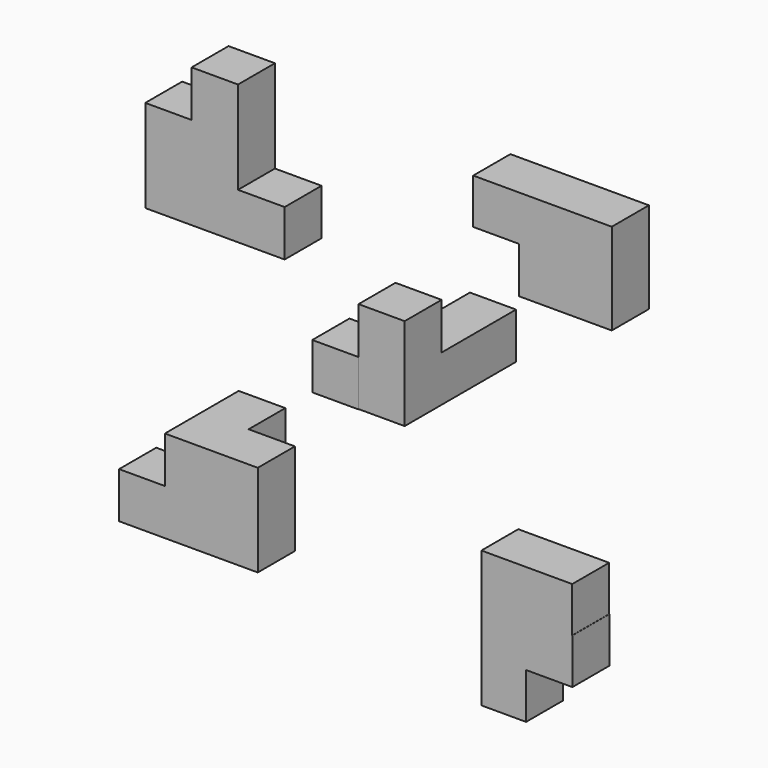
from build123d import *

# Parameters (mm, degrees)
F0_W      = 36.8707999587
F0_H      = 37.0462089777
F0_H_2    = 36.7453359067
F0_W_2    = 37.4526120722
F0_W_3    = 36.8483401835
F1_DEPTH  = 36.83
F2_W      = 36.7274060845
F2_H      = 37.1338948607
F3_DEPTH  = 36.83
F4_W      = 36.3674685359
F4_H      = 36.1300632358
F4_W_2    = 37.3409986496
F4_W_3    = 36.9172394276
F4_H_2    = 0.1472309232
F4_H_3    = 36.6679653525
F5_DEPTH  = 37.084
F6_W      = 36.8429273367
F6_H      = 36.0713973641
F6_W_2    = 35.6973931193
F6_H_2    = 36.3366901875
F6_H_3    = 36.4796817303
F7_DEPTH  = 36.83
F8_W      = 37.0499566197
F8_H      = 36.895506084
F8_W_2    = 37.0007306337
F8_W_3    = 37.2293926775
F8_H_2    = 37.0487198234
F8_H_3    = 36.979354918
F9_DEPTH  = 36.83
F10_W     = 37.2024774551
F10_H     = 36.6578996181
F10_W_2   = 36.5787893534
F10_W_3   = 36.9535088539
F10_H_2   = 36.9332283735
F11_DEPTH = 37.084
F12_DEPTH = 36.576


with BuildPart() as f1:
    # F0 (on Right) → F1 (new body)
    with BuildSketch(Plane.YZ):
        with Locations((-18.4353999794, 18.5231044888)):
            Rectangle(F0_W, F0_H)
        with Locations((-18.4353999794, -18.3726679534)):
            Rectangle(F0_W, F0_H_2)
        with Locations((18.7263060361, -18.3726679534)):
            Rectangle(F0_W_2, F0_H_2)
        with Locations((55.876782164, -18.3726679534)):
            Rectangle(F0_W_3, F0_H_2)
    extrude(amount=F1_DEPTH)

    # F2 (on Top) → F3 (join)
    with BuildSketch(Plane.XY):
        with Locations((-18.3637030423, -18.5669474304)):
            Rectangle(F2_W, F2_H)
    extrude(amount=-F3_DEPTH)


with BuildPart() as f5:
    # F4 (on Front) → F5 (new body)
    with BuildSketch(Plane.XZ):
        with Locations((109.935361892, 139.2699815333)):
            Rectangle(F4_W, F4_H)
        with Locations((146.7895954847, 139.2699815333)):
            Rectangle(F4_W_2, F4_H)
        Polygon((165.4600948095, 121.2049499154), (128.1190961599, 121.2049499154), (128.1190961599, 84.3831375241), (165.4600948095, 84.3831375241), (165.4600948095, 84.3897536397), (165.4600948095, 121.0577189922), align=None)
        with Locations((183.9187145233, 139.2699815333)):
            Rectangle(F4_W_3, F4_H)
        with Locations((183.9187145233, 121.1313344538)):
            Rectangle(F4_W_3, F4_H_2)
        with Locations((183.9187145233, 102.723736316)):
            Rectangle(F4_W_3, F4_H_3)
    extrude(amount=F5_DEPTH)


with BuildPart() as f7:
    # F6 (on Front) → F7 (new body)
    with BuildSketch(Plane.XZ):
        with Locations((152.1887555718, -122.3171167076)):
            Rectangle(F6_W, F6_H)
        Polygon((133.7672919035, -140.3528153896), (133.7672919035, -104.2814180255), (98.0698987842, -104.2814180255), (98.0698987842, -140.3603851795), (133.7672919035, -140.3603851795), align=None)
        Polygon((170.7268208265, -140.3528153896), (170.6102192402, -140.3528153896), (133.7672919035, -140.3528153896), (133.7672919035, -140.3603851795), (133.7672919035, -176.697075367), (170.7268208265, -176.697075367), align=None)
        with Locations((115.9185953438, -158.5287302732)):
            Rectangle(F6_W_2, F6_H_2)
        with Locations((115.9185953438, -194.9369162321)):
            Rectangle(F6_W_2, F6_H_3)
    extrude(amount=F7_DEPTH)


with BuildPart() as f9:
    # F8 (on Front) → F9 (new body)
    with BuildSketch(Plane.XZ):
        with Locations((-114.7904209793, 67.6203854382)):
            Rectangle(F8_W, F8_H)
        with Locations((-151.815764606, 67.6203854382)):
            Rectangle(F8_W_2, F8_H)
        with Locations((-77.6507463306, 67.6203854382)):
            Rectangle(F8_W_3, F8_H)
        with Locations((-114.7904209793, 104.5924983919)):
            Rectangle(F8_W, F8_H_2)
        with Locations((-151.815764606, 104.5924983919)):
            Rectangle(F8_W_2, F8_H_2)
        with Locations((-114.7904209793, 141.6065357625)):
            Rectangle(F8_W, F8_H_3)
    extrude(amount=F9_DEPTH)


with BuildPart() as f11:
    # F10 (on Front) → F11 (new body)
    with BuildSketch(Plane.XZ):
        with Locations((-135.8552724123, -159.3060791492)):
            Rectangle(F10_W, F10_H)
        with Locations((-172.7459058166, -159.3060791492)):
            Rectangle(F10_W_2, F10_H)
        with Locations((-98.7772792578, -159.3060791492)):
            Rectangle(F10_W_3, F10_H)
        with Locations((-135.8552724123, -122.5105151534)):
            Rectangle(F10_W, F10_H_2)
        with Locations((-98.7772792578, -122.5105151534)):
            Rectangle(F10_W_3, F10_H_2)
    extrude(amount=F11_DEPTH)

    # F10 (on Front) → F12 (join)
    with BuildSketch(Plane.XZ):
        with Locations((-135.8552724123, -122.5105151534)):
            Rectangle(F10_W, F10_H_2)
    extrude(amount=-F12_DEPTH)


solid = Compound([f1.part, f5.part, f7.part, f9.part, f11.part])
